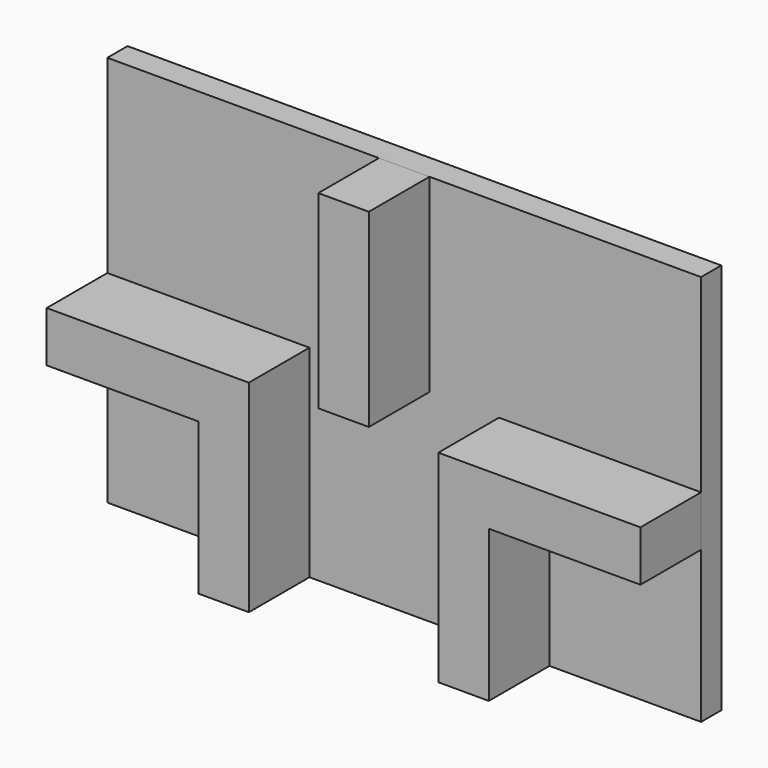
from build123d import *

# Parameters (mm, degrees)
F0_W     = 10
F0_H     = 37.5
F1_DEPTH = 15
F0_W_2   = 30
F0_H_2   = 30
F2_DEPTH = 5


with BuildPart() as f1:
    # F0 (on Front) → F1 (new body)
    with BuildSketch(Plane.XZ):
        with Locations((-18.75, 18.75)):
            Rectangle(F0_W, F0_H)
        Polygon((40, 0), (0, 0), (0, -40), (10, -40), (10, -10), (40, -10), align=None)
        Polygon((-47.5, -40), (-37.5, -40), (-37.5, 0), (-77.5, 0), (-77.5, -10), (-47.5, -10), align=None)
    extrude(amount=F1_DEPTH)


with BuildPart() as f2:
    # F0 (on Front) → F2 (new body)
    with BuildSketch(Plane.XZ):
        Polygon((0, -40), (0, 0), (40, 0), (40, 37.5), (-13.75, 37.5), (-13.75, 0), (-23.75, 0), (-23.75, 37.5), (-77.5, 37.5), (-77.5, 0), (-37.5, 0), (-37.5, -40), align=None)
        Polygon((40, 0), (0, 0), (0, -40), (10, -40), (10, -10), (40, -10), align=None)
        with Locations((25, -25)):
            Rectangle(F0_W_2, F0_H_2)
        Polygon((-47.5, -40), (-37.5, -40), (-37.5, 0), (-77.5, 0), (-77.5, -10), (-47.5, -10), align=None)
        with Locations((-18.75, 18.75)):
            Rectangle(F0_W, F0_H)
        with Locations((-62.5, -25)):
            Rectangle(F0_W_2, F0_H_2)
    extrude(amount=-F2_DEPTH)


solid = Compound([f1.part, f2.part])
